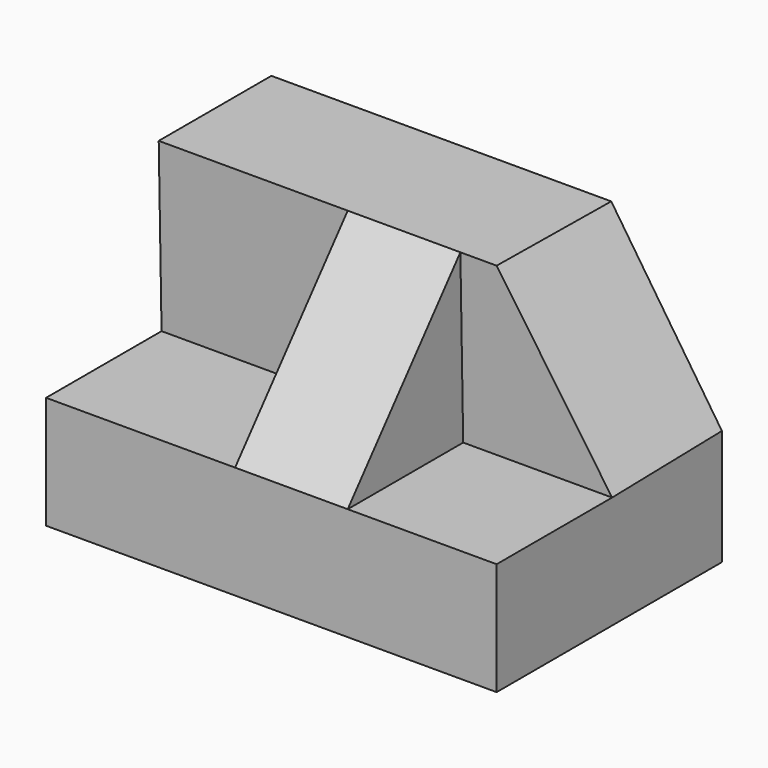
from build123d import *

# Parameters (mm, degrees)
F0_W      = 50.8
F0_H      = 31.75
F1_DEPTH  = 31.75
F3_DEPTH  = 50.8
F5_DEPTH  = 50.8
F7_DEPTH  = 25.4
F8_W      = 12.7
F8_H      = 16.2741773874
F9_DEPTH  = 19.05
F11_DEPTH = 25.4


with BuildPart() as f1:
    # F0 (on Front) → F1 (new body)
    with BuildSketch(Plane.XZ):
        with Locations((25.4, 15.875)):
            Rectangle(F0_W, F0_H)
    extrude(amount=F1_DEPTH)

    # F2 (on face) → F3 (cut)
    with BuildSketch(Plane.YZ.offset(50.8)):
        Polygon((-31.75, 31.75), (-31.75, 12.7), (-15.875, 31.75), align=None)
    extrude(amount=-F3_DEPTH, mode=Mode.SUBTRACT)

    # F4 (on face) → F5 (cut)
    with BuildSketch(Plane.YZ.offset(50.8)):
        Polygon((-15.875, 31.75), (-31.75, 12.7), (-15.4758226126, 12.7), align=None)
    extrude(amount=-F5_DEPTH, mode=Mode.SUBTRACT)

    # F6 (on face) → F7 (cut)
    with BuildSketch(Plane(origin=(0, -15.2030290354, -0.3185672131), x_dir=(1, 0, 0), z_dir=(0, -0.9997805332, -0.0209495948))):
        Polygon((38.1, 32.0756067453), (50.8, 13.0214249842), (50.8, 32.0756067453), align=None)
    extrude(amount=-F7_DEPTH, mode=Mode.SUBTRACT)

    # F8 (on face) → F9 (join)
    with BuildSketch(Plane.XY.offset(12.7)):
        with Locations((27.659196949, -23.6129113063)):
            Rectangle(F8_W, F8_H)
    extrude(amount=F9_DEPTH)

    # F10 (on face) → F11 (cut)
    with BuildSketch(Plane.YZ.offset(34.009196949)):
        Polygon((-31.75, 12.7), (-15.875, 31.75), (-31.75, 31.75), align=None)
    extrude(amount=-F11_DEPTH, mode=Mode.SUBTRACT)


solid = f1.part
